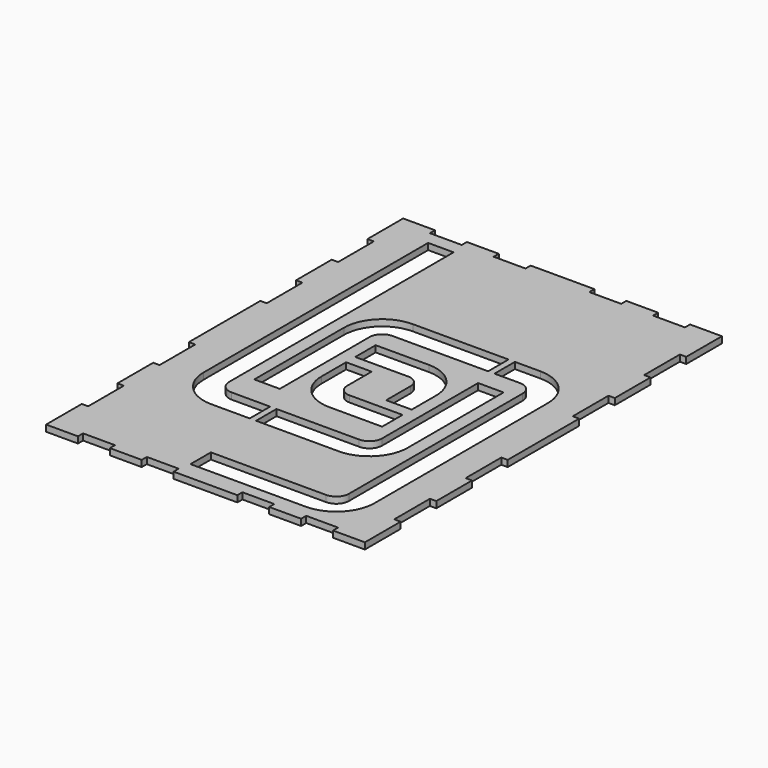
from build123d import *

# Parameters (mm, degrees)
F1_DEPTH = 5


with BuildPart() as f1:
    # F0 (on Top) → F1 (new body)
    with BuildSketch(Plane.XY):
        Polygon((38.337818, -187.449847), (43.337818, -187.449847), (43.337818, -182.449847), (43.337818, -152.449847), (38.337818, -152.449847), (38.337818, -117.449847), (43.337818, -117.449847), (43.337818, -82.449847), (38.337818, -82.449847), (38.337818, -47.449847), (43.337818, -47.449847), (43.337818, 22.550153), (38.337818, 22.550153), (38.337818, 57.550153), (43.337818, 57.550153), (43.337818, 92.550153), (38.337818, 92.550153), (38.337818, 127.550153), (43.337818, 127.550153), (43.337818, 157.550153), (43.337818, 162.550153), (18.337818, 162.550153), (18.337818, 157.550153), (-6.662182, 157.550153), (-6.662182, 162.550153), (-31.662182, 162.550153), (-31.662182, 157.550153), (-56.662182, 157.550153), (-56.662182, 162.550153), (-81.662182, 162.550153), (-106.662182, 162.550153), (-106.662182, 157.550153), (-131.662182, 157.550153), (-131.662182, 162.550153), (-156.662182, 162.550153), (-156.662182, 157.550153), (-181.662182, 157.550153), (-181.662182, 162.550153), (-206.662182, 162.550153), (-206.662182, 127.550153), (-201.662182, 127.550153), (-201.662182, 92.550153), (-206.662182, 92.550153), (-206.662182, 57.550153), (-201.662182, 57.550153), (-201.662182, 22.550153), (-206.662182, 22.550153), (-206.662182, -12.449847), (-206.662182, -47.449847), (-201.662182, -47.449847), (-201.662182, -82.449847), (-206.662182, -82.449847), (-206.662182, -117.449847), (-201.662182, -117.449847), (-201.662182, -152.449847), (-206.662182, -152.449847), (-206.662182, -187.449847), (-201.662182, -187.449847), (-181.662182, -187.449847), (-181.662182, -182.449847), (-156.662182, -182.449847), (-156.662182, -187.449847), (-131.662182, -187.449847), (-131.662182, -182.449847), (-106.662182, -182.449847), (-106.662182, -187.449847), (-81.662182, -187.449847), (-56.662182, -187.449847), (-56.662182, -182.449847), (-31.662182, -182.449847), (-31.662182, -187.449847), (-6.662182, -187.449847), (-6.662182, -182.449847), (18.337818, -182.449847), (18.337818, -187.449847), align=None)
        with BuildLine():
            Line((-4.479525, -143.196979), (-4.479525, 26.803021))
            ThreePointArc((-4.479525, 26.803021), (-7.408457, 33.874089), (-14.479525, 36.803021))
            Line((-14.479525, 36.803021), (-34.410654, 36.803021))
            Line((-34.410654, 36.803021), (-34.410654, 56.803021))
            Line((-34.410654, 56.803021), (-14.479525, 56.803021))
            ThreePointArc((-14.479525, 56.803021), (6.733678, 48.016224), (15.520475, 26.803021))
            Line((15.520475, 26.803021), (15.520475, -143.196979))
            ThreePointArc((15.520475, -143.196979), (6.733678, -164.410183), (-14.479525, -173.196979))
            Line((-14.479525, -173.196979), (-104.812019, -173.196979))
            Line((-104.812019, -173.196979), (-104.812019, -153.196979))
            Line((-104.812019, -153.196979), (-14.479525, -153.196979))
            ThreePointArc((-14.479525, -153.196979), (-7.408457, -150.268047), (-4.479525, -143.196979))
        make_face(mode=Mode.SUBTRACT)
        with BuildLine():
            Line((-94.812019, -8.145639), (-94.812019, -32.145639))
            ThreePointArc((-94.812019, -32.145639), (-92.191017, -38.473298), (-85.863359, -41.0943))
            Line((-85.863359, -41.0943), (-44.198371, -41.0943))
            Line((-44.198371, -41.0943), (-44.198371, -61.0943))
            Line((-44.198371, -61.0943), (-85.863359, -61.0943))
            ThreePointArc((-85.863359, -61.0943), (-106.333153, -52.615433), (-114.812019, -32.145639))
            Line((-114.812019, -32.145639), (-114.812019, -8.145639))
            Line((-114.812019, -8.145639), (-94.812019, -8.145639))
        make_face(mode=Mode.SUBTRACT)
        with BuildLine():
            Line((-109.385459, -83.196979), (-44.479525, -83.196979))
            ThreePointArc((-44.479525, -83.196979), (-37.408457, -80.268047), (-34.479525, -73.196979))
            Line((-34.479525, -73.196979), (-34.479525, 20.803021))
            Line((-34.479525, 20.803021), (-14.479525, 20.803021))
            Line((-14.479525, 20.803021), (-14.479525, -73.196979))
            ThreePointArc((-14.479525, -73.196979), (-23.266322, -94.410183), (-44.479525, -103.196979))
            Line((-44.479525, -103.196979), (-109.385459, -103.196979))
            Line((-109.385459, -103.196979), (-109.385459, -83.196979))
        make_face(mode=Mode.SUBTRACT)
        with BuildLine():
            Line((-154.479525, 146.803021), (-154.479525, -73.196979))
            ThreePointArc((-154.479525, -73.196979), (-151.550593, -80.268047), (-144.479525, -83.196979))
            Line((-144.479525, -83.196979), (-114.385459, -83.196979))
            Line((-114.385459, -83.196979), (-114.385459, -103.196979))
            Line((-114.385459, -103.196979), (-144.479525, -103.196979))
            ThreePointArc((-144.479525, -103.196979), (-165.692728, -94.410183), (-174.479525, -73.196979))
            Line((-174.479525, -73.196979), (-174.479525, 146.803021))
            Line((-174.479525, 146.803021), (-154.479525, 146.803021))
        make_face(mode=Mode.SUBTRACT)
        with BuildLine():
            Line((-39.410654, 36.803021), (-114.479525, 36.803021))
            ThreePointArc((-114.479525, 36.803021), (-121.550593, 33.874089), (-124.479525, 26.803021))
            Line((-124.479525, 26.803021), (-124.479525, -61.0943))
            Line((-124.479525, -61.0943), (-144.479525, -61.0943))
            Line((-144.479525, -61.0943), (-144.479525, 26.803021))
            ThreePointArc((-144.479525, 26.803021), (-135.692728, 48.016224), (-114.479525, 56.803021))
            Line((-114.479525, 56.803021), (-39.410654, 56.803021))
            Line((-39.410654, 56.803021), (-39.410654, 36.803021))
        make_face(mode=Mode.SUBTRACT)
        with BuildLine():
            Line((-44.198371, -32.145639), (-64.198371, -32.145639))
            Line((-64.198371, -32.145639), (-64.198371, -8.145639))
            ThreePointArc((-64.198371, -8.145639), (-66.819373, -1.817981), (-73.147031, 0.803021))
            Line((-73.147031, 0.803021), (-114.812019, 0.803021))
            Line((-114.812019, 0.803021), (-114.812019, 20.803021))
            Line((-114.812019, 20.803021), (-73.147031, 20.803021))
            ThreePointArc((-73.147031, 20.803021), (-52.677237, 12.324154), (-44.198371, -8.145639))
            Line((-44.198371, -8.145639), (-44.198371, -32.145639))
        make_face(mode=Mode.SUBTRACT)
    extrude(amount=F1_DEPTH)


solid = f1.part
